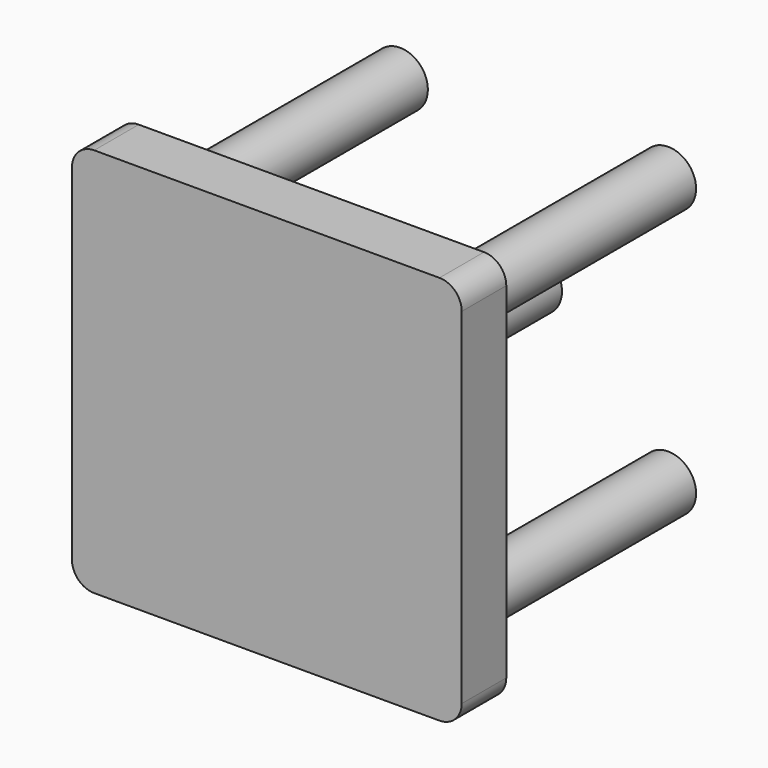
from build123d import *

# Parameters (mm, degrees)
F0_W     = 88.9
F0_H     = 88.9
F0_R     = 6.35
F1_DEPTH = 12.7
F2_DEPTH = 76.2
F3_R     = 5.08


with BuildPart() as f1:
    # F0 (on Front) → F1 (new body)
    with BuildSketch(Plane.XZ):
        with Locations((-9.724989, -10.736793)):
            Rectangle(F0_W, F0_H)
        with Locations((-40.30901, -41.320814)):
            Circle(F0_R, mode=Mode.SUBTRACT)
        with Locations((20.859033, -41.320814)):
            Circle(F0_R, mode=Mode.SUBTRACT)
        with Locations((-40.30901, 19.847229)):
            Circle(F0_R, mode=Mode.SUBTRACT)
        with Locations((-9.724989, -10.736793)):
            Circle(F0_R, mode=Mode.SUBTRACT)
        with Locations((20.859033, 19.847229)):
            Circle(F0_R, mode=Mode.SUBTRACT)
    extrude(amount=-F1_DEPTH)

    # F0 (on Front) → F2 (join)
    with BuildSketch(Plane.XZ):
        with Locations((-40.30901, 19.847229)):
            Circle(F0_R)
        with Locations((20.859033, 19.847229)):
            Circle(F0_R)
        with Locations((-9.724989, -10.736793)):
            Circle(F0_R)
        with Locations((20.859033, -41.320814)):
            Circle(F0_R)
        with Locations((-40.30901, -41.320814)):
            Circle(F0_R)
    extrude(amount=-F2_DEPTH)

    # F3
    f3_edges = [f1.edges().sort_by_distance(p)[0] for p in [
        (34.725011, 6.35, 33.713207),
        (-54.174989, 6.35, 33.713207),
        (-54.174989, 6.35, -55.186793),
        (34.725011, 6.35, -55.186793),
        (14.509033, 12.7, 19.847229),
        (-46.65901, 12.7, 19.847229),
        (-16.074989, 12.7, -10.736793),
        (-46.65901, 12.7, -41.320814),
        (14.509033, 12.7, -41.320814),
    ]]
    fillet(f3_edges, radius=F3_R)


solid = f1.part
